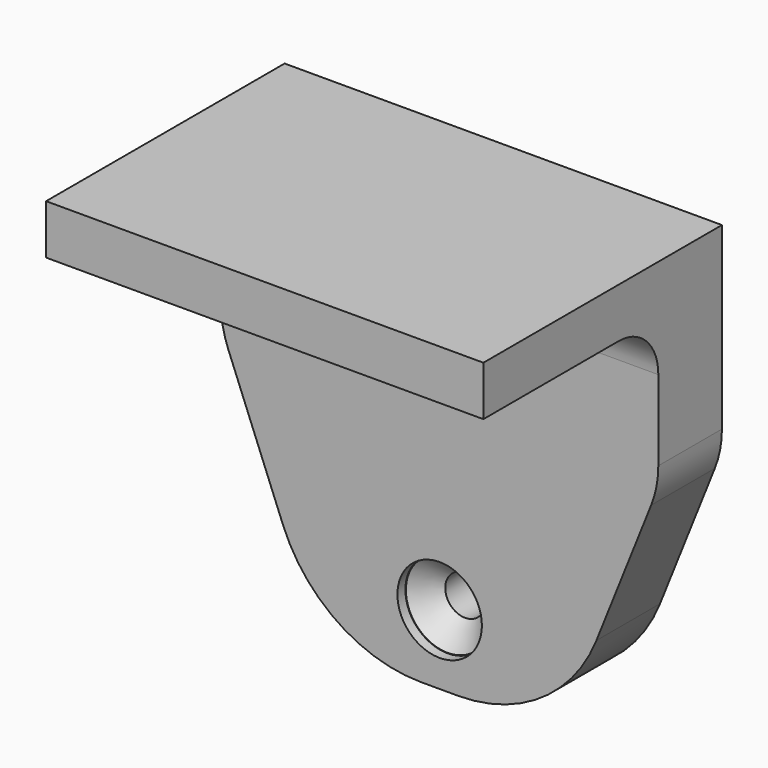
from build123d import *

# Parameters (mm, degrees)
CYLINDER004_R             = 2
CYLINDER004_DEPTH         = 10
CYLINDER005_R             = 4.25
CYLINDER005_DEPTH         = 10
FUSION006_PLACEMENT_ANGLE = 180
CYLINDER006_R             = 4.25
CYLINDER006_DEPTH         = 10
CYLINDER003_R             = 2
CYLINDER003_DEPTH         = 10
CYLINDER002_R             = 4.25
CYLINDER002_DEPTH         = 10
EXTRUDE_DEPTH             = 8
BOX004_W                  = 24
BOX004_H                  = 8
BOX004_DEPTH              = 45
BOX003_W                  = 44
BOX003_H                  = 8
BOX003_DEPTH              = 15
BOX002_W                  = 44
BOX002_H                  = 30
BOX002_DEPTH              = 5
FILLET_R                  = 5
FILLET001_R               = 15
FILLET002_R               = 10
CHAMFER001_SIZE           = 2.2
CHAMFER002_SIZE           = 2.2


with BuildPart() as cylinder004:
    # Cylinder004 → Cylinder004 (new body)
    with BuildSketch(Plane(origin=(22, 80, -33), x_dir=(1, 0, 0), z_dir=(0, -1, 0))):
        Circle(CYLINDER004_R)
    extrude(amount=CYLINDER004_DEPTH)


with BuildPart() as fusion006:
    # Cylinder005 → Cylinder005 (new body)
    with BuildSketch(Plane(origin=(22, 89, -33), x_dir=(1, 0, 0), z_dir=(0, -1, 0))):
        Circle(CYLINDER005_R)
    extrude(amount=CYLINDER005_DEPTH)

    # Fusion006: union Cylinder004
    add(cylinder004.part)


with BuildPart() as fusion006_1:
    # Fusion006 placement: moved
    add(fusion006.part.moved(Location((0, 152, -66))).rotate(Axis((0, 152, -66), (1, 0, 0)), FUSION006_PLACEMENT_ANGLE))


with BuildPart() as cylinder006:
    # Cylinder006 → Cylinder006 (new body)
    with BuildSketch(Plane(origin=(22, 80, -33), x_dir=(1, 0, 0), z_dir=(0, -1, 0))):
        Circle(CYLINDER006_R)
    extrude(amount=CYLINDER006_DEPTH)


with BuildPart() as cylinder003:
    # Cylinder003 → Cylinder003 (new body)
    with BuildSketch(Plane(origin=(22, 80, -33), x_dir=(1, 0, 0), z_dir=(0, -1, 0))):
        Circle(CYLINDER003_R)
    extrude(amount=CYLINDER003_DEPTH)


with BuildPart() as fusion005:
    # Cylinder002 → Cylinder002 (new body)
    with BuildSketch(Plane(origin=(22, 89, -33), x_dir=(1, 0, 0), z_dir=(0, -1, 0))):
        Circle(CYLINDER002_R)
    extrude(amount=CYLINDER002_DEPTH)

    # Fusion005: union Cylinder003
    add(cylinder003.part)


with BuildPart() as extrude_body:
    # Sketch (on Face11 of Fusion003) → Extrude (new body)
    with BuildSketch(Plane(origin=(0, 80, 0), x_dir=(-1, 0, 0), z_dir=(0, 1, 0))):
        Polygon((-44, -15), (-34, -40), (-34, -15), align=None)
        Polygon((-10, -15), (0, -15), (-10, -40), align=None)
    extrude(amount=-EXTRUDE_DEPTH)


with BuildPart() as cube004:
    # Box004 → Box004 (new body)
    with BuildSketch(Plane(origin=(10, 72, -40), x_dir=(1, 0, 0), z_dir=(0, 0, 1))):
        with Locations((12, 4)):
            Rectangle(BOX004_W, BOX004_H)
    extrude(amount=BOX004_DEPTH)


with BuildPart() as cube003:
    # Box003 → Box003 (new body)
    with BuildSketch(Plane(origin=(0, 72, -15), x_dir=(1, 0, 0), z_dir=(0, 0, 1))):
        with Locations((22, 4)):
            Rectangle(BOX003_W, BOX003_H)
    extrude(amount=BOX003_DEPTH)


with BuildPart() as pieza_interior_x4:
    # Box002 → Box002 (new body)
    with BuildSketch(Plane(origin=(0, 50, 0), x_dir=(1, 0, 0), z_dir=(0, 0, 1))):
        with Locations((22, 15)):
            Rectangle(BOX002_W, BOX002_H)
    extrude(amount=BOX002_DEPTH)

    # Fusion002: union Cube003
    add(cube003.part)

    # Fillet
    fillet_edges = [pieza_interior_x4.edges().sort_by_distance(p)[0] for p in [
        (22, 72, 0),
    ]]
    fillet(fillet_edges, radius=FILLET_R)

    # Fusion003: union Cube004
    add(cube004.part)

    # Fusion004: union Extrude body
    add(extrude_body.part)

    # Fillet001
    fillet001_edges = [pieza_interior_x4.edges().sort_by_distance(p)[0] for p in [
        (10, 76, -40),
        (34, 76, -40),
    ]]
    fillet(fillet001_edges, radius=FILLET001_R)

    # Fillet002
    fillet002_edges = [pieza_interior_x4.edges().sort_by_distance(p)[0] for p in [
        (44, 76, -15),
        (0, 76, -15),
    ]]
    fillet(fillet002_edges, radius=FILLET002_R)

    # Cut001: cut Fusion005
    add(fusion005.part, mode=Mode.SUBTRACT)

    # Chamfer001
    chamfer001_edges = [pieza_interior_x4.edges().sort_by_distance(p)[0] for p in [
        (20, 79, -33),
    ]]
    chamfer(chamfer001_edges, length=CHAMFER001_SIZE)

    # Fusion007: union Cylinder006
    add(cylinder006.part)

    # Cut002: cut Fusion006
    add(fusion006_1.part, mode=Mode.SUBTRACT)

    # Chamfer002
    chamfer002_edges = [pieza_interior_x4.edges().sort_by_distance(p)[0] for p in [
        (20, 73, -33),
    ]]
    chamfer(chamfer002_edges, length=CHAMFER002_SIZE)


solid = pieza_interior_x4.part
